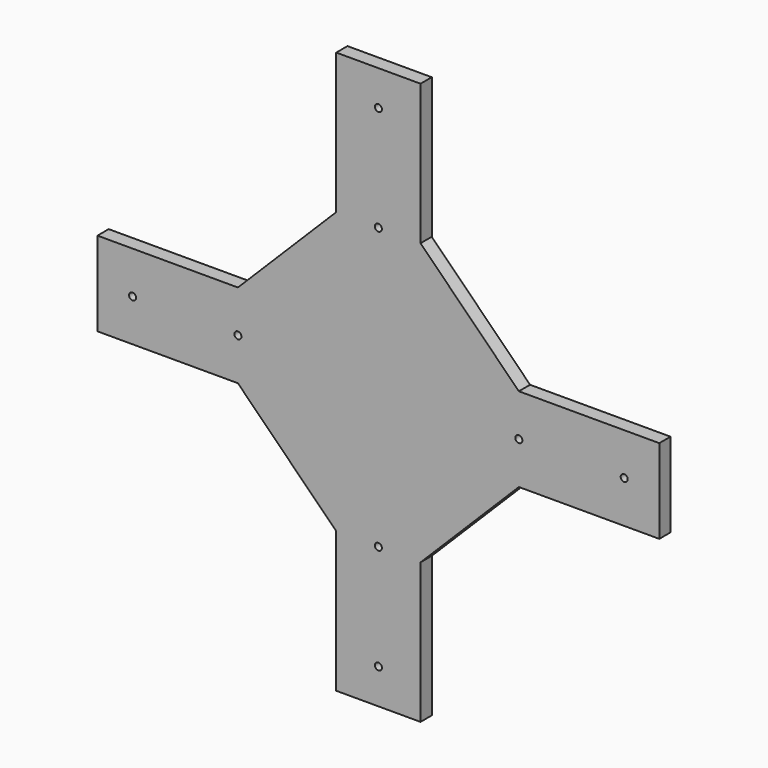
from build123d import *

# Parameters (mm, degrees)
F1_DEPTH = 25.4
F3_D     = 12.7


with BuildPart() as f1:
    # F0 (on Front) → F1 (new body)
    with BuildSketch(Plane.XZ):
        Polygon((0, -508), (0, 0), (0, 508), (-76.2, 508), (-76.2, 254), (-254, 76.2), (-508, 76.2), (-508, -76.2), (-254, -76.2), (-76.2, -254), (-76.2, -508), align=None)
        Polygon((0, 508), (0, 0), (508, 0), (508, 76.2), (254, 76.2), (76.2, 254), (76.2, 508), align=None)
        Polygon((508, 0), (0, 0), (0, -508), (76.2, -508), (76.2, -254), (254, -76.2), (508, -76.2), align=None)
    extrude(amount=F1_DEPTH)

    # F3 (through all)
    with Locations(Plane.XZ.offset(25.4)):
        with Locations((0, 444.5), (0, 254), (254, 0), (444.5, 0), (0, -254), (0, -444.5), (-254, 0), (-444.5, 0)):
            Hole(F3_D / 2)


solid = f1.part
